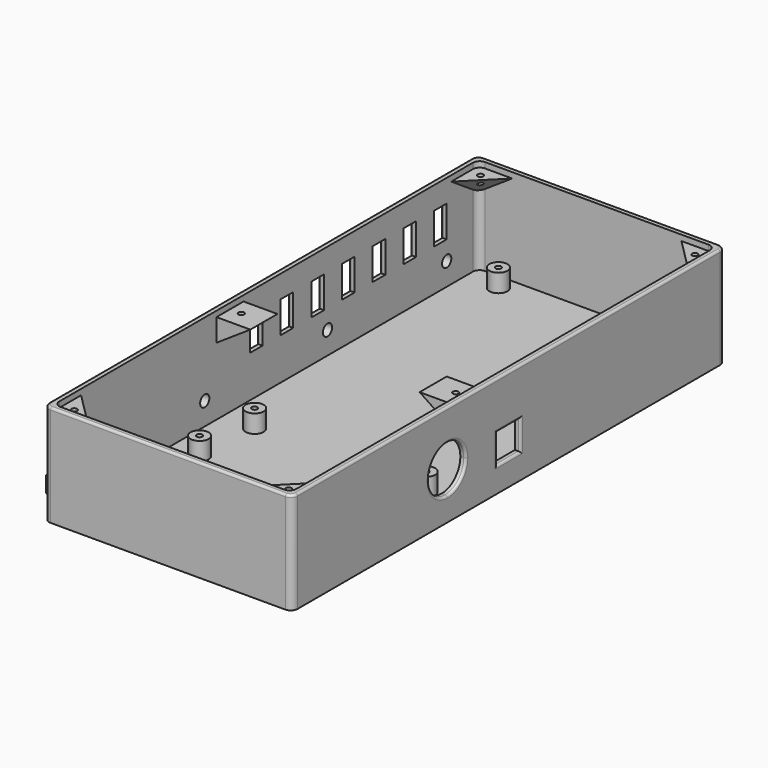
from build123d import *

# Parameters (mm, degrees)
F0_W      = 110
F0_H      = 240
F1_DEPTH  = 45
F2_W      = 105
F2_H      = 235
F3_DEPTH  = 42.5
F4_R      = 4
F5_DEPTH  = 8
F6_W      = 13
F6_H      = 13
F7_DEPTH  = 2.5
F8_W      = 7
F8_H      = 14
F9_DEPTH  = 2.5
F10_R     = 3
F11_R     = 3
F13_DEPTH = 2.5
F14_R     = 1
F23_D     = 2.5
F23_DEPTH = 10
F23_TIP   = 0.7510757738
F24_W     = 234
F24_H     = 9
F25_DEPTH = 1.4
F27_DEPTH = 234
F29_D     = 5.1
F29_DEPTH = 8
F29_TIP   = 1.5321945785
F17_W     = 15
F17_H     = 15
F30_DEPTH = 10
F32_DEPTH = 15
F34_DEPTH = 15
F35_D     = 2.5
F35_DEPTH = 10
F35_TIP   = 0.7510757738
F37_D     = 2.5
F37_DEPTH = 7
F37_TIP   = 0.7510757738


with BuildPart() as f1:
    # F0 (on Top) → F1 (new body)
    with BuildSketch(Plane.XY):
        Rectangle(F0_W, F0_H)
    extrude(amount=F1_DEPTH)

    # F2 (on face) → F3 (cut, through all)
    with BuildSketch(Plane.XY.offset(45)):
        Rectangle(F2_W, F2_H)
    extrude(amount=-F3_DEPTH, mode=Mode.SUBTRACT)

    # F4 (on face) → F5 (join)
    with BuildSketch(Plane.XY.offset(2.5)):
        with Locations((-38, 110.5)):
            Circle(F4_R)
        with Locations((38, 110.5)):
            Circle(F4_R)
        with Locations((-38, -24.5)):
            Circle(F4_R)
        with Locations((38, -24.5)):
            Circle(F4_R)
        with Locations((-40, -52.5)):
            Circle(F4_R)
        with Locations((40, -52.5)):
            Circle(F4_R)
        with Locations((-40, -110.5)):
            Circle(F4_R)
        with Locations((40, -110.5)):
            Circle(F4_R)
    extrude(amount=F5_DEPTH)

    # F6 (on face) → F7 (cut, through all)
    with BuildSketch(Plane.YZ.offset(55)):
        with Locations((0, 17.5)):
            Rectangle(F6_W, F6_H)
    extrude(amount=-F7_DEPTH, mode=Mode.SUBTRACT)

    # F8 (on face) → F9 (cut, through all)
    with BuildSketch(Plane(origin=(-55, 0, 0), x_dir=(0, -1, 0), z_dir=(-1, 0, 0))):
        with Locations((-62.5, 28)):
            Rectangle(F8_W, F8_H)
        with Locations((-45.5, 28)):
            Rectangle(F8_W, F8_H)
        with Locations((-28.5, 28)):
            Rectangle(F8_W, F8_H)
        with Locations((-11.5, 28)):
            Rectangle(F8_W, F8_H)
        with Locations((5.5, 28)):
            Rectangle(F8_W, F8_H)
        with Locations((-79.5, 28)):
            Rectangle(F8_W, F8_H)
        with Locations((-96.5, 28)):
            Rectangle(F8_W, F8_H)
    extrude(amount=-F9_DEPTH, mode=Mode.SUBTRACT)

    # F10
    f10_edges = [f1.edges().sort_by_distance(p)[0] for p in [
        (-55, -120, 22.5),
        (55, -120, 22.5),
        (-55, 120, 22.5),
        (55, 120, 22.5),
    ]]
    fillet(f10_edges, radius=F10_R)

    # F11
    f11_edges = [f1.edges().sort_by_distance(p)[0] for p in [
        (-52.5, -117.5, 23.75),
        (52.5, -117.5, 23.75),
        (-52.5, 117.5, 23.75),
        (52.5, 117.5, 23.75),
    ]]
    fillet(f11_edges, radius=F11_R)

    # F12 (on face) → F13 (cut, through all)
    with BuildSketch(Plane.YZ.offset(55)):
        with BuildLine():
            ThreePointArc((-33.9475087821, 10.5), (-26.699664275, 13.5021554928), (-23.6975087821, 20.75))
            ThreePointArc((-23.6975087821, 20.75), (-41.1953532893, 27.9978445072), (-33.9475087821, 10.5))
        make_face()
    extrude(amount=-F13_DEPTH, mode=Mode.SUBTRACT)

    # F14
    f14_edges = [f1.edges().sort_by_distance(p)[0] for p in [
        (0, -120, 45),
        (55, -33.947509, 31),
        (55, -6.5, 17.5),
        (55, 0, 11),
        (55, 6.5, 17.5),
        (55, 0, 24),
        (-55, 100, 28),
        (-55, 93, 28),
        (-55, 96.5, 21),
        (-55, 96.5, 35),
        (-55, 79.5, 35),
        (-55, 83, 28),
        (-55, 79.5, 21),
        (-55, 76, 28),
        (-55, 62.5, 35),
        (-55, 66, 28),
        (-55, 62.5, 21),
        (-55, 59, 28),
        (-55, 45.5, 35),
        (-55, 42, 28),
        (-55, 49, 28),
        (-55, 45.5, 21),
        (-55, 32, 28),
        (-55, 28.5, 21),
        (-55, 28.5, 35),
        (-55, 25, 28),
        (-55, 15, 28),
        (-55, 11.5, 21),
        (-55, 11.5, 35),
        (-55, 8, 28),
        (-55, -5.5, 35),
        (-55, -2, 28),
        (-55, -9, 28),
        (-55, -5.5, 21),
    ]]
    fillet(f14_edges, radius=F14_R)

    # F17 (on offset) → F19 section 0
    with BuildSketch(Plane.XY.offset(42.5), mode=Mode.PRIVATE) as f19_s0:
        Polygon((-52.5, 117.5), (-52.5, 102.5), (-37.5, 117.5), align=None)
    loft([f19_s0.sketch, Vertex(-52.5, 117.5, 32.5)])

    # F17 (on offset) → F20 section 0
    with BuildSketch(Plane.XY.offset(42.5), mode=Mode.PRIVATE) as f20_s0:
        Polygon((37.5, 117.5), (52.5, 102.5), (52.5, 117.5), align=None)
    loft([f20_s0.sketch, Vertex(52.5, 117.5, 32.5)])

    # F17 (on offset) → F21 section 0
    with BuildSketch(Plane.XY.offset(42.5), mode=Mode.PRIVATE) as f21_s0:
        Polygon((37.5, -117.5), (52.5, -117.5), (52.5, -102.5), align=None)
    loft([f21_s0.sketch, Vertex(52.5, -117.5, 32.5)])

    # F17 (on offset) → F22 section 0
    with BuildSketch(Plane.XY.offset(42.5), mode=Mode.PRIVATE) as f22_s0:
        Polygon((-52.5, -117.5), (-37.5, -117.5), (-52.5, -102.5), align=None)
    loft([f22_s0.sketch, Vertex(-52.5, -117.5, 32.5)])

    # F23
    with Locations(Plane.XY.offset(42.5)):
        with Locations((-47.5, -112.5), (-47.5, 112.5), (47.5, 112.5), (47.5, -112.5)):
            Hole(F23_D / 2, depth=F23_DEPTH)
            with Locations((0, 0, -(F23_DEPTH + F23_TIP / 2))):  # 118° drill point
                Cone(0, F23_D / 2, F23_TIP, mode=Mode.SUBTRACT)

    # F24 (on face) → F25 (join)
    with BuildSketch(Plane(origin=(-55, 0, 0), x_dir=(0, -1, 0), z_dir=(-1, 0, 0))):
        with Locations((0, 12.5)):
            Rectangle(F24_W, F24_H)
    extrude(amount=F25_DEPTH)

    # F26 (on face) → F27 (cut, through all)
    with BuildSketch(Plane.XZ.offset(117)):
        Polygon((-56.4, 16), (-55, 17), (-56.4, 17), align=None)
        Polygon((-56.4, 8), (-55, 8), (-56.4, 9), align=None)
    extrude(amount=-F27_DEPTH, mode=Mode.SUBTRACT)

    # F29
    with Locations(Plane(origin=(-56.4, 0, 0), x_dir=(0, -1, 0), z_dir=(-1, 0, 0))):
        with Locations((34, 12.5), (-34, 12.5), (-100, 12.5), (100, 12.5)):
            Hole(F29_D / 2, depth=F29_DEPTH)
            with Locations((0, 0, -(F29_DEPTH + F29_TIP / 2))):  # 118° drill point
                Cone(0, F29_D / 2, F29_TIP, mode=Mode.SUBTRACT)

    # F17 (on offset) → F30 (join)
    with BuildSketch(Plane.XY.offset(42.5)):
        with Locations((-45, -20)):
            Rectangle(F17_W, F17_H)
        with Locations((45, -20)):
            Rectangle(F17_W, F17_H)
    extrude(amount=-F30_DEPTH)

    # F31 (on face) → F32 (cut, through all)
    with BuildSketch(Plane.XZ.offset(27.5)):
        Polygon((-37.5, 42.5), (-52.5, 32.5), (-37.5, 32.5), align=None)
    extrude(amount=-F32_DEPTH, mode=Mode.SUBTRACT)

    # F33 (on face) → F34 (cut, through all)
    with BuildSketch(Plane.XZ.offset(27.5)):
        Polygon((52.5, 32.5), (37.5, 42.5), (37.5, 32.5), align=None)
    extrude(amount=-F34_DEPTH, mode=Mode.SUBTRACT)

    # F35
    with Locations(Plane.XY.offset(42.5)):
        with Locations((-47.5, -20), (47.5, -20)):
            Hole(F35_D / 2, depth=F35_DEPTH)
            with Locations((0, 0, -(F35_DEPTH + F35_TIP / 2))):  # 118° drill point
                Cone(0, F35_D / 2, F35_TIP, mode=Mode.SUBTRACT)

    # F37 (one way)
    with BuildSketch(Plane.XY.offset(10.5)):
        with Locations((-38, -24.5), (-40, -52.5), (40, -52.5), (38, -24.5), (-40, -110.5), (38, 110.5), (40, -110.5), (-38, 110.5)):
            Circle(F37_D / 2)
    extrude(amount=-F37_DEPTH, mode=Mode.SUBTRACT)
    with Locations(Plane.XY.offset(10.5)):
        with Locations((-38, -24.5), (-40, -52.5), (40, -52.5), (38, -24.5), (-40, -110.5), (38, 110.5), (40, -110.5), (-38, 110.5)):
            with Locations((0, 0, -(F37_DEPTH + F37_TIP / 2))):  # 118° drill point
                Cone(0, F37_D / 2, F37_TIP, mode=Mode.SUBTRACT)


solid = f1.part
